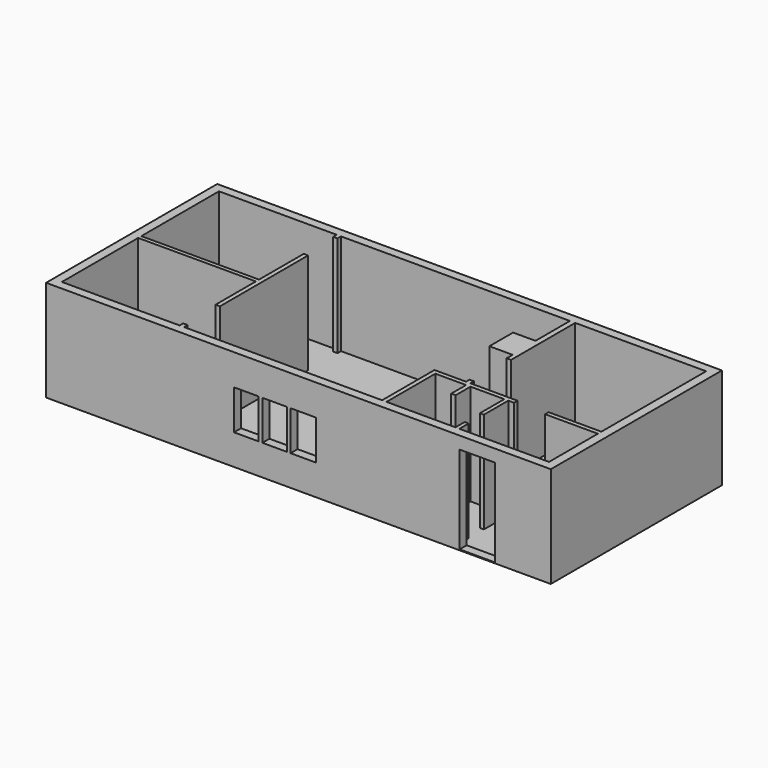
from build123d import *

# Parameters (mm, degrees)
F0_W     = 11490
F0_H     = 4870
F1_DEPTH = 2300
F2_W     = 11489.289284
F2_H     = 4870
F3_DEPTH = 1
F4_W     = 806.658864
F4_H     = 2000
F4_W_2   = 563.794136
F4_H_2   = 902.069986
F4_W_3   = 563.793659
F4_W_4   = 581.141471
F5_DEPTH = 200


with BuildPart() as f1:
    # F0 (on Top) → F1 (new body)
    with BuildSketch(Plane.XY):
        with Locations((-5745, 2435)):
            Rectangle(F0_W, F0_H)
        Polygon((-11290, 2460), (-11290, 4670), (-8610, 4670), (-8610, 4570), (-8510, 4570), (-8510, 4670), (-3300, 4670), (-3300, 3690), (-3810.149231, 3690), (-3810.149231, 3014.851036), (-3280, 3014.851036), (-3280, 2845.392675), (-3180, 2845.392675), (-3180, 4670), (-200, 4670), (-200, 1690), (-1400, 1690), (-1400, 1590), (-200, 1590), (-200, 200), (-2240, 200), (-2240, 463.203937), (-2330, 463.203937), (-2330, 200), (-3900, 200), (-3900, 1590), (-3200, 1590), (-3200, 1166.976213), (-3100, 1166.976213), (-3100, 1590), (-2330, 1590), (-2330, 895), (-2240, 895), (-2240, 1590), (-2108.616352, 1590), (-2108.616352, 1690), (-2240, 1690), (-3180, 1690), (-3180, 1790), (-3280, 1790), (-3280, 1690), (-4000, 1690), (-4000, 200), (-8510, 200), (-8510, 300), (-8610, 300), (-8610, 200), (-11290, 200), (-11290, 2370), (-8610, 2370), (-8610, 1222), (-8510, 1222), (-8510, 3731), (-8610, 3731), (-8610, 2460), align=None, mode=Mode.SUBTRACT)
    extrude(amount=-F1_DEPTH)

    # F2 (on face) → F3 (join)
    with BuildSketch(Plane(origin=(0, 0, -2300), x_dir=(1, 0, 0), z_dir=(0, 0, -1))):
        with Locations((-5744.644642, -2435)):
            Rectangle(F2_W, F2_H)
    extrude(amount=F3_DEPTH)

    # F4 (on face) → F5 (cut, through all)
    with BuildSketch(Plane.XZ):
        with Locations((-1673.329432, -1281)):
            Rectangle(F4_W, F4_H)
        with Locations((-6930.4986, -1154.836923)):
            Rectangle(F4_W_2, F4_H_2)
        with Locations((-6284.30438, -1154.837042)):
            Rectangle(F4_W_3, F4_H_2)
        with Locations((-5633.773089, -1154.836893)):
            Rectangle(F4_W_4, F4_H_2)
    extrude(amount=-F5_DEPTH, mode=Mode.SUBTRACT)


solid = f1.part
